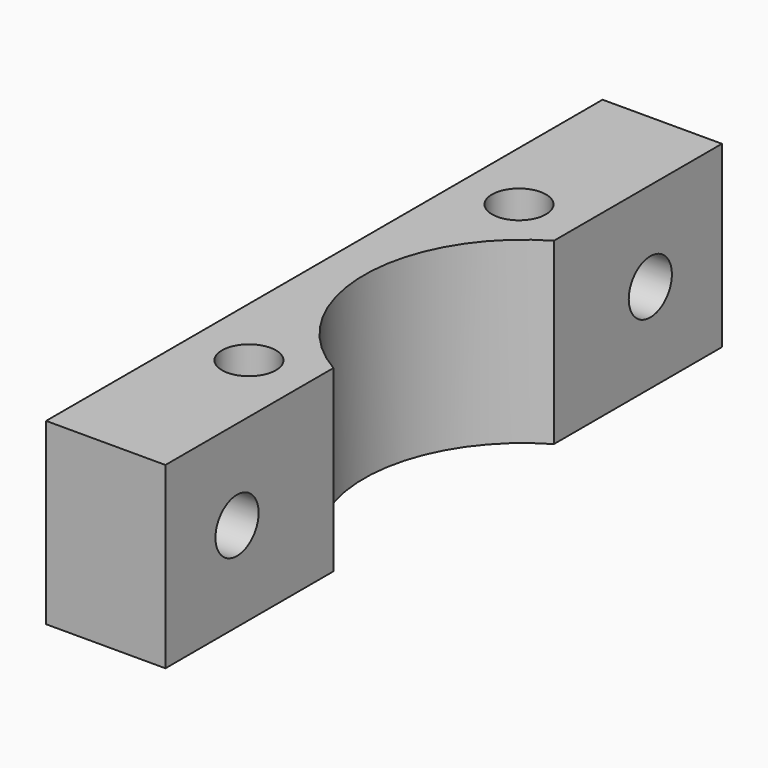
from build123d import *

# Parameters (mm, degrees)
F0_R     = 2.15265
F1_DEPTH = 14.2875
F2_R     = 2.15265
F3_DEPTH = 9.525


with BuildPart() as f1:
    # F0 (on Top) → F1 (new body)
    with BuildSketch(Plane.XY):
        with BuildLine():
            ThreePointArc((0, 0), (-6.35, 10.998523), (0, 21.997045))
            Line((0, 21.997045), (0, 38.756407))
            Line((0, 38.756407), (-9.525, 38.756407))
            Line((-9.525, 38.756407), (-9.525, -16.759362))
            Line((-9.525, -16.759362), (0, -16.759362))
            Line((0, -16.759362), (0, 0))
        make_face()
        with Locations((-4.7625, -2.471862)):
            Circle(F0_R, mode=Mode.SUBTRACT)
        with Locations((-4.7625, 24.468907)):
            Circle(F0_R, mode=Mode.SUBTRACT)
    extrude(amount=F1_DEPTH)

    # F2 (on face) → F3 (cut, through all)
    with BuildSketch(Plane(origin=(-9.525, 0, 0), x_dir=(0, -1, 0), z_dir=(-1, 0, 0))):
        with Locations((9.615612, 7.14375)):
            Circle(F2_R)
        with Locations((-31.612657, 7.14375)):
            Circle(F2_R)
    extrude(amount=-F3_DEPTH, mode=Mode.SUBTRACT)


solid = f1.part
